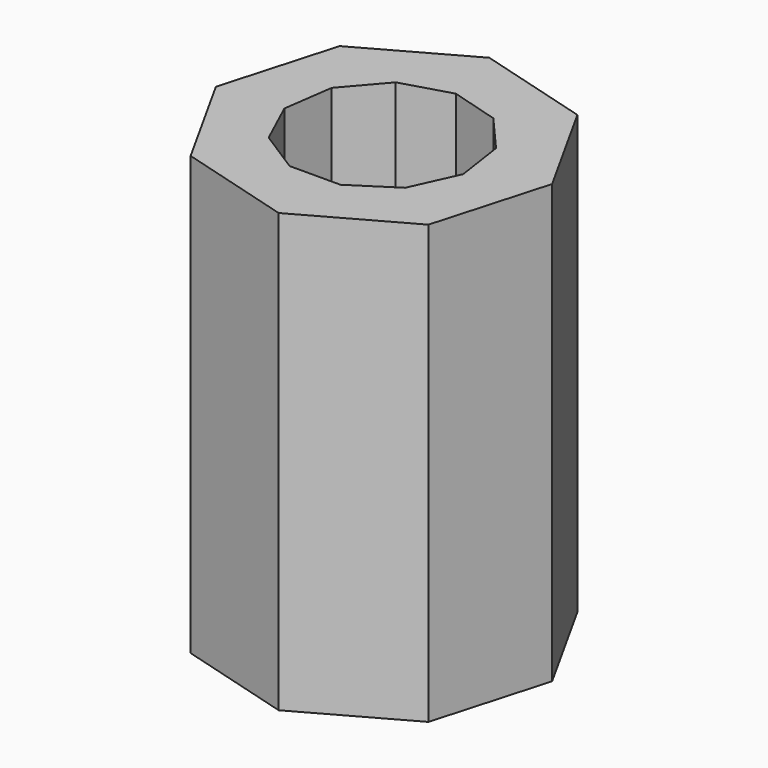
from build123d import *

# Parameters (mm, degrees)
F1_DEPTH = 83.312


with BuildPart() as f1:
    # F0 (on Top) → F1 (new body)
    with BuildSketch(Plane.XY):
        Polygon((3.386476, -29.289481), (23.10539, -18.316191), (29.289481, 3.386476), (18.316191, 23.10539), (-3.386476, 29.289481), (-23.10539, 18.316191), (-29.289481, -3.386476), (-18.316191, -23.10539), align=None)
        Polygon((-15.622193, 7.089933), (-9.309118, 14.410427), (-0.040463, 17.155711), (9.241038, 14.454179), (15.588575, 7.163547), (16.98685, -2.401461), (12.991919, -11.204022), (4.872147, -16.449385), (-4.794498, -16.472184), (-12.938924, -11.265182), (-16.975333, -2.481564), align=None, mode=Mode.SUBTRACT)
    extrude(amount=-F1_DEPTH)


solid = f1.part
